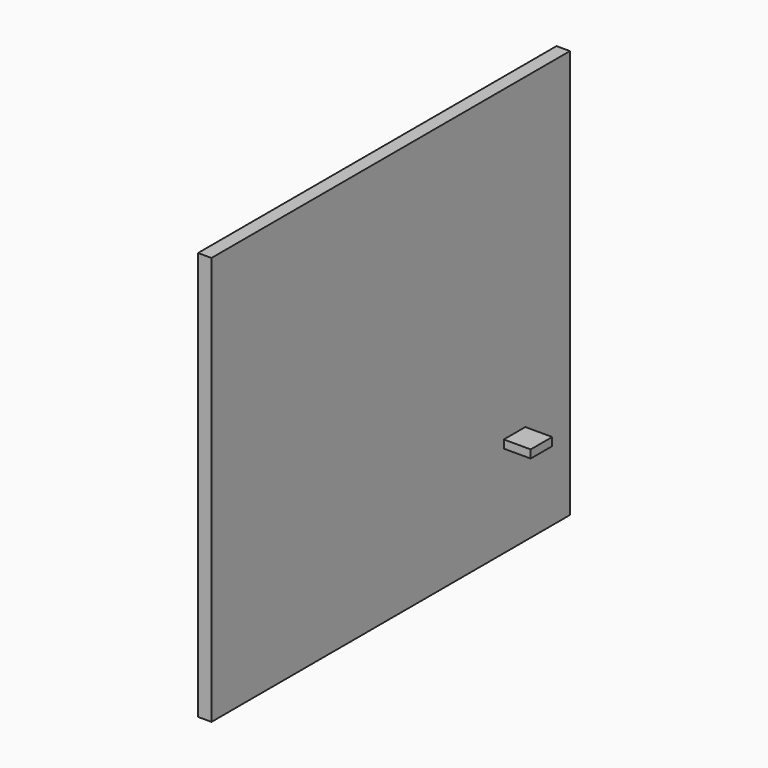
from build123d import *

# Parameters (mm, degrees)
F0_W     = 1664.771676
F0_H     = 1517.554998
F1_DEPTH = 50
F2_W     = 100
F2_H     = 30
F3_DEPTH = 100


with BuildPart() as f1:
    # F0 (on Right) → F1 (new body)
    with BuildSketch(Plane.YZ):
        Rectangle(F0_W, F0_H)
    extrude(amount=F1_DEPTH)


with BuildPart() as f3:
    # F2 (on Front) → F3 (new body)
    with BuildSketch(Plane.XZ):
        with Locations((600, 15)):
            Rectangle(F2_W, F2_H)
    extrude(amount=F3_DEPTH)


solid = Compound([f1.part, f3.part])
